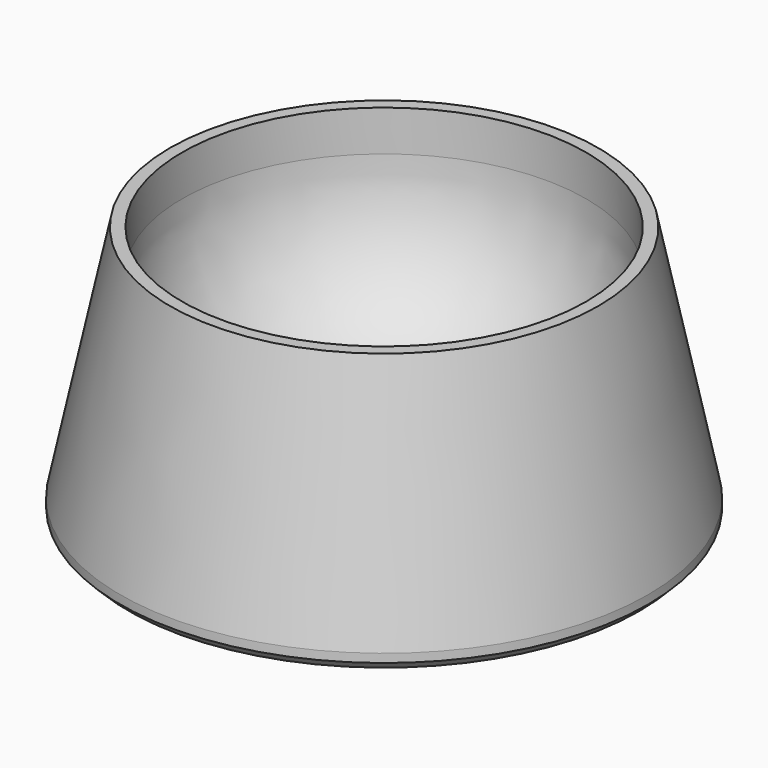
from build123d import *


with BuildPart() as f1:
    # F0 (on Front) → F1 (revolve)
    with BuildSketch(Plane.XZ):
        with BuildLine():
            Line((0, 2.54), (0, 0))
            Line((0, 0), (12.1158, 0))
            Line((12.1158, 0), (12.5222, 0.4064))
            Line((12.5222, 0.4064), (12.5222, 0.8128))
            Line((12.5222, 0.8128), (10.16, 12.097027))
            Line((10.16, 12.097027), (9.584958, 12.097027))
            Line((9.584958, 12.097027), (9.584958, 10.16))
            ThreePointArc((9.584958, 10.16), (7.353112, 4.771846), (1.964958, 2.54))
            Line((1.964958, 2.54), (0, 2.54))
        make_face()
    revolve(axis=Axis((0, 0, 7.318514), (0, 0, -1)))


solid = f1.part
